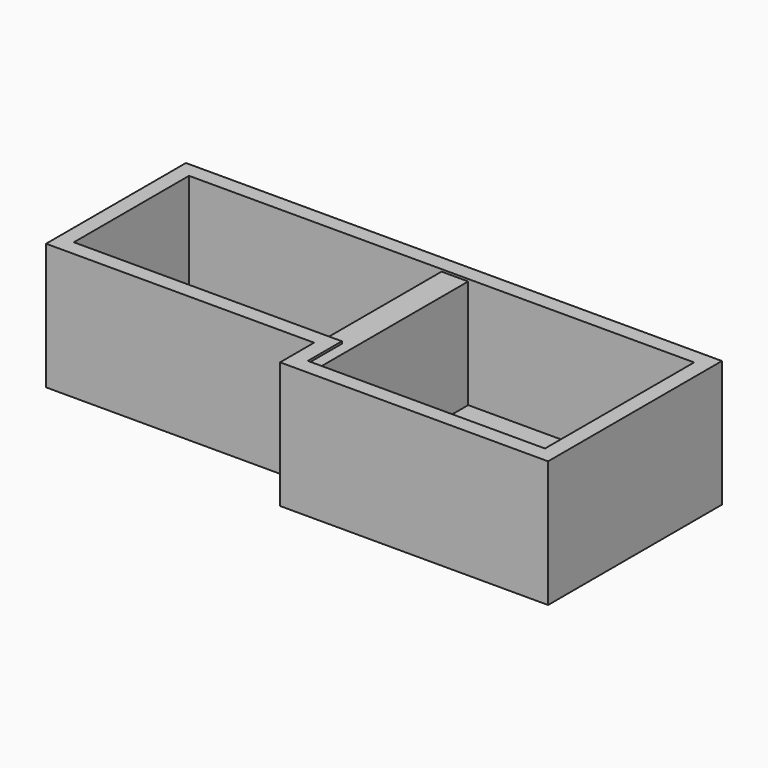
from build123d import *

# Parameters (mm, degrees)
F0_W     = 441.0978853703
F0_H     = 178.8222193718
F1_DEPTH = 104.1071284562
F2_W     = 220.5489426851
F2_H     = 34.9790751934
F3_DEPTH = 137.1856275946
F4_T     = -12.7
F5_W     = 21.9141840935
F5_H     = 178.8222193718
F6_DEPTH = 102.2892072797


with BuildPart() as f1:
    # F0 (on Top) → F1 (new body)
    with BuildSketch(Plane.XY):
        Rectangle(F0_W, F0_H)
    extrude(amount=F1_DEPTH)

    # F2 (on face) → F3 (cut)
    with BuildSketch(Plane.XY.offset(104.1071284562)):
        with Locations((-110.2744713426, -71.9215720892)):
            Rectangle(F2_W, F2_H)
    extrude(amount=-F3_DEPTH, mode=Mode.SUBTRACT)

    # F4
    f4_openings = [f1.faces().sort_by_distance(p)[0] for p in [
        (11.954487, 7.796778, 104.107128),
    ]]
    offset(amount=F4_T, openings=f4_openings, kind=Kind.INTERSECTION)

    # F5 (on face) → F6 (join)
    with BuildSketch(Plane(origin=(0, 0, 0), x_dir=(1, 0, 0), z_dir=(0, 0, -1))):
        with Locations((10.9570920467, 0)):
            Rectangle(F5_W, F5_H)
    extrude(amount=-F6_DEPTH)


solid = f1.part
